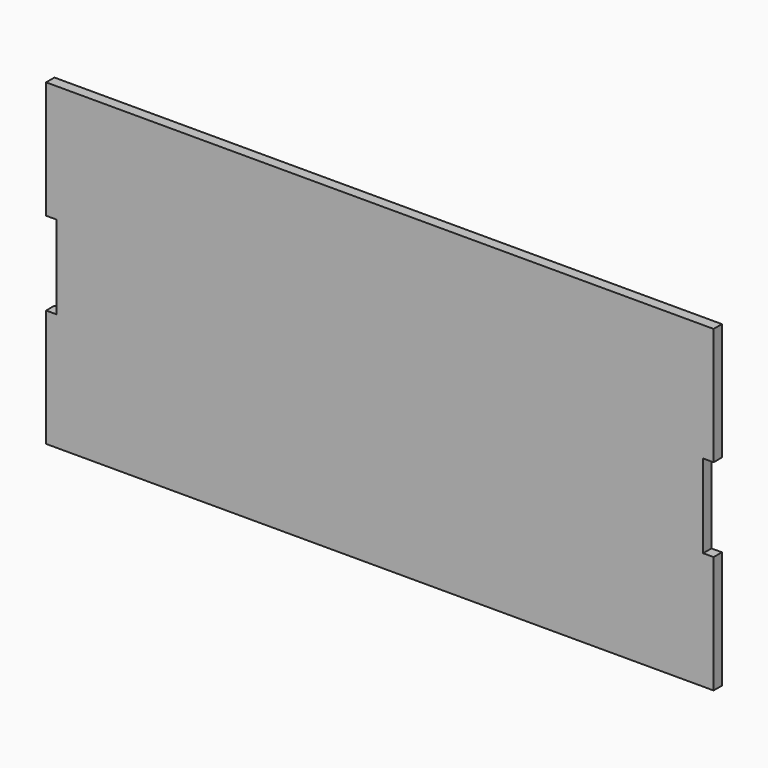
from build123d import *

# Parameters (mm, degrees)
F1_DEPTH = 3.175


with BuildPart() as f1:
    # F0 (on Front) → F1 (new body)
    with BuildSketch(Plane.XZ):
        Polygon((-101.6, 53.18125), (-101.6, 17.441406), (-101.6, 17.43075), (-98.425, 17.43075), (-98.425, 4.73075), (-98.425, -7.96925), (-101.6, -7.96925), (-101.6, -16.481872), (-101.6, -16.608872), (-101.6, -43.71975), (0, -43.71975), (101.6, -43.71975), (101.6, -17.600083), (101.6, -7.96925), (98.425, -7.96925), (98.425, 4.73075), (98.425, 17.43075), (101.6, 17.43075), (101.6, 17.441406), (101.6, 53.18125), (0, 53.18125), align=None)
    extrude(amount=F1_DEPTH)


solid = f1.part
